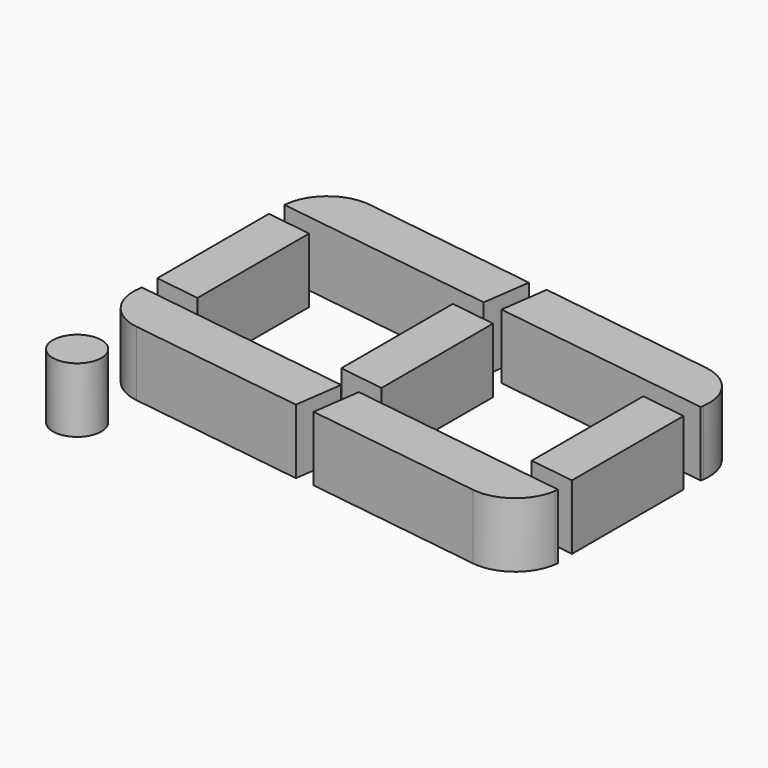
from build123d import *

# Parameters (mm, degrees)
BOX003_W               = 7
BOX003_H               = 1.5
BOX003_DEPTH           = 2
BOX003_PLACEMENT_ANGLE = -8
FILLET003_R            = 1.4
BOX002_W               = 7
BOX002_H               = 1.5
BOX002_DEPTH           = 2
BOX002_PLACEMENT_ANGLE = -8
FILLET_R               = 1.4
BOX004_W               = 7
BOX004_H               = 1.5
BOX004_DEPTH           = 2
BOX004_PLACEMENT_ANGLE = -8
FILLET002_R            = 1.4
CYLINDER_R             = 0.75
CYLINDER_DEPTH         = 2
BOX014_W               = 7
BOX014_H               = 1.4
BOX014_DEPTH           = 2
BOX014_PLACEMENT_ANGLE = -8
BOX013_W               = 7
BOX013_H               = 1.4
BOX013_DEPTH           = 2
BOX013_PLACEMENT_ANGLE = -8
BOX012_W               = 1.4
BOX012_H               = 4.5
BOX012_DEPTH           = 2
BOX005_W               = 7
BOX005_H               = 1.5
BOX005_DEPTH           = 2
BOX005_PLACEMENT_ANGLE = -8
FILLET001_R            = 1.4
BOX011_W               = 7
BOX011_H               = 1.4
BOX011_DEPTH           = 2
BOX011_PLACEMENT_ANGLE = -8
BOX010_W               = 7
BOX010_H               = 1.4
BOX010_DEPTH           = 2
BOX010_PLACEMENT_ANGLE = -8
BOX009_W               = 1.4
BOX009_H               = 4.5
BOX009_DEPTH           = 2
BOX008_W               = 7
BOX008_H               = 1.4
BOX008_DEPTH           = 2
BOX008_PLACEMENT_ANGLE = -8
BOX007_W               = 7
BOX007_H               = 1.4
BOX007_DEPTH           = 2
BOX007_PLACEMENT_ANGLE = -8
BOX006_W               = 1.4
BOX006_H               = 4.5
BOX006_DEPTH           = 2


with BuildPart() as fillet003:
    # Box003 → Box003 (new body)
    with BuildSketch(Plane.XY):
        with Locations((3.5, 0.75)):
            Rectangle(BOX003_W, BOX003_H)
    extrude(amount=BOX003_DEPTH)


with BuildPart() as fillet003_1:
    # Box003 placement: moved
    add(fillet003.part.moved(Location((8.8, 7, 6.2))).rotate(Axis((8.8, 7, 6.2), (0, 0, 1)), BOX003_PLACEMENT_ANGLE))

    # Fillet003
    fillet003_edges = [fillet003_1.edges().sort_by_distance(p)[0] for p in [
        (15.731876, 6.025788, 7.2),
    ]]
    fillet(fillet003_edges, radius=FILLET003_R)


with BuildPart() as fillet003_2:
    # Fillet003 placement: moved
    add(fillet003_1.part.moved(Location((-0.5, 0, 0))))


with BuildPart() as fillet_body:
    # Box002 → Box002 (new body)
    with BuildSketch(Plane.XY):
        with Locations((3.5, 0.75)):
            Rectangle(BOX002_W, BOX002_H)
    extrude(amount=BOX002_DEPTH)


with BuildPart() as fillet_body_1:
    # Box002 placement: moved
    add(fillet_body.part.moved(Location((-0.2, 8, 6.2))).rotate(Axis((-0.2, 8, 6.2), (0, 0, 1)), BOX002_PLACEMENT_ANGLE))

    # Fillet
    fillet_edges = [fillet_body_1.edges().sort_by_distance(p)[0] for p in [
        (-0.2, 8, 7.2),
    ]]
    fillet(fillet_edges, radius=FILLET_R)


with BuildPart() as fillet_body_2:
    # Fillet placement: moved
    add(fillet_body_1.part.moved(Location((1, 0, 0))))


with BuildPart() as fillet002:
    # Box004 → Box004 (new body)
    with BuildSketch(Plane.XY):
        with Locations((3.5, 0.75)):
            Rectangle(BOX004_W, BOX004_H)
    extrude(amount=BOX004_DEPTH)


with BuildPart() as fillet002_1:
    # Box004 placement: moved
    add(fillet002.part.moved(Location((9, 14, 6.2))).rotate(Axis((9, 14, 6.2), (0, 0, 1)), BOX004_PLACEMENT_ANGLE))

    # Fillet002
    fillet002_edges = [fillet002_1.edges().sort_by_distance(p)[0] for p in [
        (16.140636, 14.51119, 7.2),
    ]]
    fillet(fillet002_edges, radius=FILLET002_R)


with BuildPart() as fillet002_2:
    # Fillet002 placement: moved
    add(fillet002_1.part.moved(Location((-0.5, 0, 0))))


with BuildPart() as cylinder:
    # Cylinder → Cylinder (new body)
    with BuildSketch(Plane(origin=(1.8, 6, 6.2), x_dir=(1, 0, 0), z_dir=(0, 0, 1))):
        Circle(CYLINDER_R)
    extrude(amount=CYLINDER_DEPTH)


with BuildPart() as kub014:
    # Box014 → Box014 (new body)
    with BuildSketch(Plane.XY):
        with Locations((3.5, 0.7)):
            Rectangle(BOX014_W, BOX014_H)
    extrude(amount=BOX014_DEPTH)


with BuildPart() as kub014_1:
    # Box014 placement: moved
    add(kub014.part.moved(Location((-10, 9.2, 6.2))).rotate(Axis((-10, 9.2, 6.2), (0, 0, 1)), BOX014_PLACEMENT_ANGLE))


with BuildPart() as kub013:
    # Box013 → Box013 (new body)
    with BuildSketch(Plane.XY):
        with Locations((3.5, 0.7)):
            Rectangle(BOX013_W, BOX013_H)
    extrude(amount=BOX013_DEPTH)


with BuildPart() as kub013_1:
    # Box013 placement: moved
    add(kub013.part.moved(Location((-9, 14.78, 6.2))).rotate(Axis((-9, 14.78, 6.2), (0, 0, 1)), BOX013_PLACEMENT_ANGLE))


with BuildPart() as cut007:
    # Box012 → Box012 (new body)
    with BuildSketch(Plane(origin=(-7, 10, 6.2), x_dir=(1, 0, 0), z_dir=(0, 0, 1))):
        with Locations((0.7, 2.25)):
            Rectangle(BOX012_W, BOX012_H)
    extrude(amount=BOX012_DEPTH)

    # Cut006: cut Kub013
    add(kub013_1.part, mode=Mode.SUBTRACT)

    # Cut007: cut Kub014
    add(kub014_1.part, mode=Mode.SUBTRACT)


with BuildPart() as cut007_1:
    # Cut007 placement: moved
    add(cut007.part.moved(Location((21, -1.9, 0))))


with BuildPart() as fillet001:
    # Box005 → Box005 (new body)
    with BuildSketch(Plane.XY):
        with Locations((3.5, 0.75)):
            Rectangle(BOX005_W, BOX005_H)
    extrude(amount=BOX005_DEPTH)


with BuildPart() as fillet001_1:
    # Box005 placement: moved
    add(fillet001.part.moved(Location((0, 15, 6.2))).rotate(Axis((0, 15, 6.2), (0, 0, 1)), BOX005_PLACEMENT_ANGLE))

    # Fillet001
    fillet001_edges = [fillet001_1.edges().sort_by_distance(p)[0] for p in [
        (0.20876, 16.485402, 7.2),
    ]]
    fillet(fillet001_edges, radius=FILLET001_R)


with BuildPart() as fillet001_2:
    # Fillet001 placement: moved
    add(fillet001_1.part.moved(Location((1, 0, 0))))


with BuildPart() as kub011:
    # Box011 → Box011 (new body)
    with BuildSketch(Plane.XY):
        with Locations((3.5, 0.7)):
            Rectangle(BOX011_W, BOX011_H)
    extrude(amount=BOX011_DEPTH)


with BuildPart() as kub011_1:
    # Box011 placement: moved
    add(kub011.part.moved(Location((-10, 9.2, 6.2))).rotate(Axis((-10, 9.2, 6.2), (0, 0, 1)), BOX011_PLACEMENT_ANGLE))


with BuildPart() as kub010:
    # Box010 → Box010 (new body)
    with BuildSketch(Plane.XY):
        with Locations((3.5, 0.7)):
            Rectangle(BOX010_W, BOX010_H)
    extrude(amount=BOX010_DEPTH)


with BuildPart() as kub010_1:
    # Box010 placement: moved
    add(kub010.part.moved(Location((-9, 14.78, 6.2))).rotate(Axis((-9, 14.78, 6.2), (0, 0, 1)), BOX010_PLACEMENT_ANGLE))


with BuildPart() as cut005:
    # Box009 → Box009 (new body)
    with BuildSketch(Plane(origin=(-7, 10, 6.2), x_dir=(1, 0, 0), z_dir=(0, 0, 1))):
        with Locations((0.7, 2.25)):
            Rectangle(BOX009_W, BOX009_H)
    extrude(amount=BOX009_DEPTH)

    # Cut004: cut Kub010
    add(kub010_1.part, mode=Mode.SUBTRACT)

    # Cut005: cut Kub011
    add(kub011_1.part, mode=Mode.SUBTRACT)


with BuildPart() as cut005_1:
    # Cut005 placement: moved
    add(cut005.part.moved(Location((14.4, -1, 0))))


with BuildPart() as kub008:
    # Box008 → Box008 (new body)
    with BuildSketch(Plane.XY):
        with Locations((3.5, 0.7)):
            Rectangle(BOX008_W, BOX008_H)
    extrude(amount=BOX008_DEPTH)


with BuildPart() as kub008_1:
    # Box008 placement: moved
    add(kub008.part.moved(Location((-10, 9.2, 6.2))).rotate(Axis((-10, 9.2, 6.2), (0, 0, 1)), BOX008_PLACEMENT_ANGLE))


with BuildPart() as kub007:
    # Box007 → Box007 (new body)
    with BuildSketch(Plane.XY):
        with Locations((3.5, 0.7)):
            Rectangle(BOX007_W, BOX007_H)
    extrude(amount=BOX007_DEPTH)


with BuildPart() as kub007_1:
    # Box007 placement: moved
    add(kub007.part.moved(Location((-9, 14.78, 6.2))).rotate(Axis((-9, 14.78, 6.2), (0, 0, 1)), BOX007_PLACEMENT_ANGLE))


with BuildPart() as fusion:
    # Box006 → Box006 (new body)
    with BuildSketch(Plane(origin=(-7, 10, 6.2), x_dir=(1, 0, 0), z_dir=(0, 0, 1))):
        with Locations((0.7, 2.25)):
            Rectangle(BOX006_W, BOX006_H)
    extrude(amount=BOX006_DEPTH)

    # Cut002: cut Kub007
    add(kub007_1.part, mode=Mode.SUBTRACT)

    # Cut003: cut Kub008
    add(kub008_1.part, mode=Mode.SUBTRACT)


with BuildPart() as fusion_1:
    # Cut003 placement: moved
    add(fusion.part.moved(Location((8, -0.1, 0))))

    # Fusion: union Fillet003, Fillet body, Fillet002, Cylinder, Cut007, Fillet001, Cut005
    add(fillet003_2.part)
    add(fillet_body_2.part)
    add(fillet002_2.part)
    add(cylinder.part)
    add(cut007_1.part)
    add(fillet001_2.part)
    add(cut005_1.part)


with BuildPart() as fusion_2:
    # Fusion placement: moved
    add(fusion_1.part.moved(Location((0, 1, 0))))


solid = fusion_2.part
